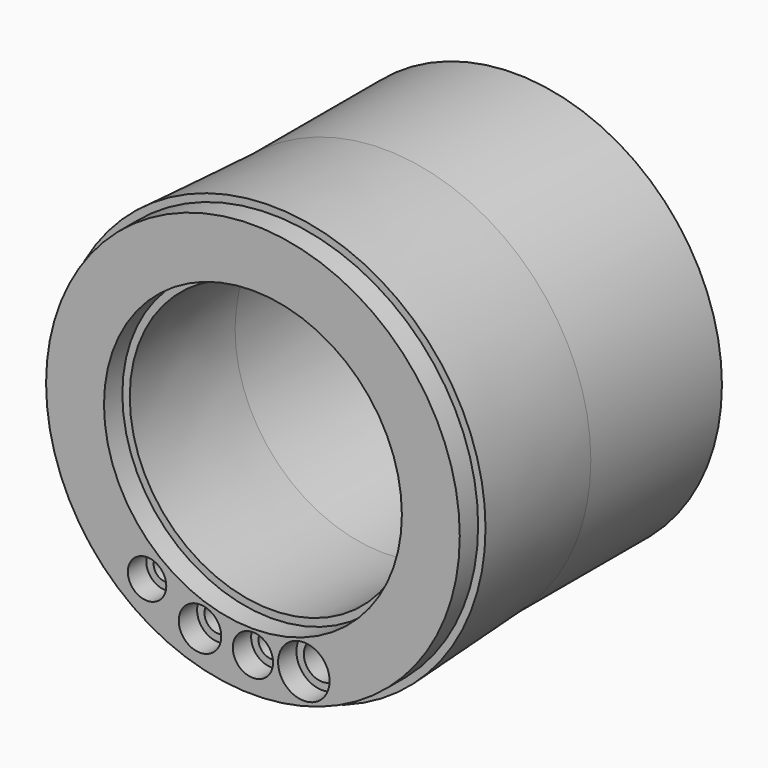
from build123d import *

# Parameters (mm, degrees)
F0_R          = 32.0697490131
F0_R_2        = 2.9775662438
F0_R_3        = 3.2951829211
F0_R_4        = 3.1244932294
F0_R_5        = 3.9923282689
F0_R_6        = 23.0902893634
F1_DEPTH      = 21.844
F1_TAPER      = -3
F1_DEPTH_BACK = 25.4
F2_DEPTH      = 25.4


with BuildPart() as f1:
    # F0 (on Front) → F1 (new body, two sides)
    with BuildSketch(Plane.XZ) as f1_sk:
        Circle(F0_R)
        with Locations((-16.412306577, -21.6200593859)):
            Circle(F0_R_2, mode=Mode.SUBTRACT)
        with Locations((-8.2061551511, -25.7231369615)):
            Circle(F0_R_3, mode=Mode.SUBTRACT)
        with Locations((0, -26.6700014472)):
            Circle(F0_R_4, mode=Mode.SUBTRACT)
        with Locations((7.8905345872, -26.3543780893)):
            Circle(F0_R_5, mode=Mode.SUBTRACT)
        Circle(F0_R_6, mode=Mode.SUBTRACT)
    extrude(amount=F1_DEPTH, taper=F1_TAPER)
    extrude(f1_sk.sketch, amount=-F1_DEPTH_BACK)


with BuildPart() as f2:
    # F0 (on Front) → F2 (new body)
    with BuildSketch(Plane.XZ):
        Circle(F0_R)
        with Locations((-16.412306577, -21.6200593859)):
            Circle(F0_R_2, mode=Mode.SUBTRACT)
        with Locations((-8.2061551511, -25.7231369615)):
            Circle(F0_R_3, mode=Mode.SUBTRACT)
        with Locations((0, -26.6700014472)):
            Circle(F0_R_4, mode=Mode.SUBTRACT)
        with Locations((7.8905345872, -26.3543780893)):
            Circle(F0_R_5, mode=Mode.SUBTRACT)
        Circle(F0_R_6, mode=Mode.SUBTRACT)
    extrude(amount=F2_DEPTH)


solid = Compound([f1.part, f2.part])
